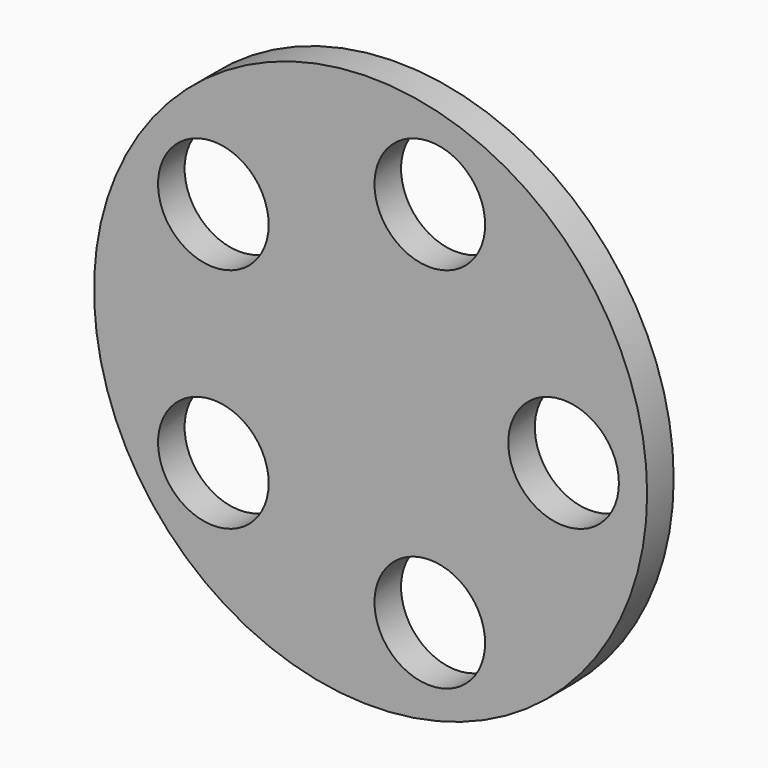
from build123d import *

# Parameters (mm, degrees)
F0_R     = 63.5
F0_R_2   = 12.7
F1_DEPTH = 7.62


with BuildPart() as f1:
    # F0 (on Front) → F1 (new body)
    with BuildSketch(Plane.XZ):
        Circle(F0_R)
        with Locations((-36.100031, -26.127054)):
            Circle(F0_R_2, mode=Mode.SUBTRACT)
        with Locations((13.59658, -42.274462)):
            Circle(F0_R_2, mode=Mode.SUBTRACT)
        with Locations((-36.100031, 26.127054)):
            Circle(F0_R_2, mode=Mode.SUBTRACT)
        with Locations((44.310775, 0)):
            Circle(F0_R_2, mode=Mode.SUBTRACT)
        with Locations((13.59658, 42.274462)):
            Circle(F0_R_2, mode=Mode.SUBTRACT)
    extrude(amount=F1_DEPTH)


solid = f1.part
